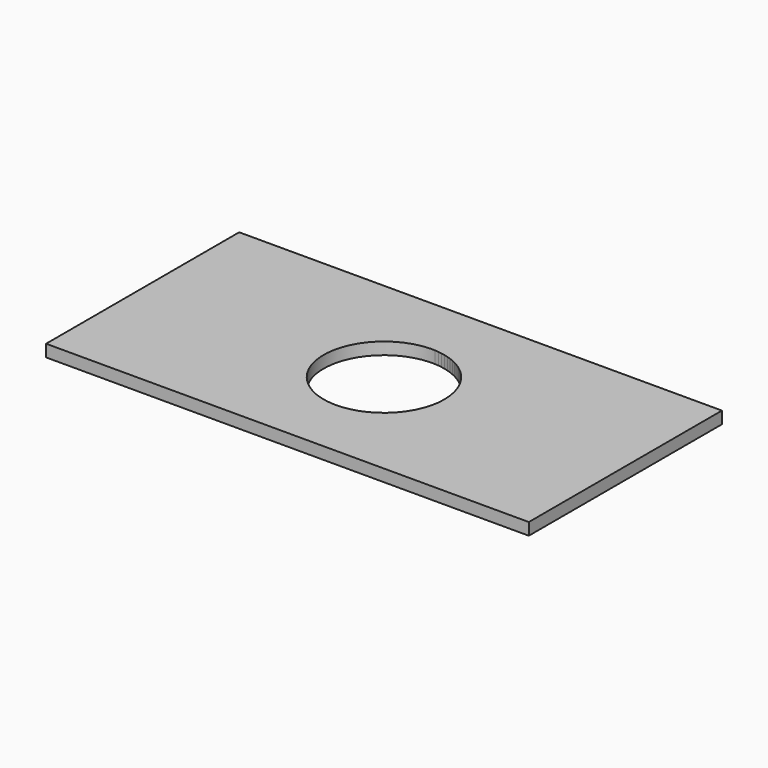
from build123d import *

# Parameters (mm, degrees)
CYLINDER_R        = 50
CYLINDER_DEPTH    = 10
BOX_W             = 200
BOX_H             = 100
BOX_DEPTH         = 10
CYLINDER001_R     = 50
CYLINDER001_DEPTH = 10
BOX001_W          = 400
BOX001_H          = 200
BOX001_DEPTH      = 10


with BuildPart() as cylinder:
    # Cylinder → Cylinder (new body)
    with BuildSketch(Plane.XY):
        Circle(CYLINDER_R)
    extrude(amount=CYLINDER_DEPTH)


with BuildPart() as cut:
    # Box → Box (new body)
    with BuildSketch(Plane.XY):
        with Locations((100, 50)):
            Rectangle(BOX_W, BOX_H)
    extrude(amount=BOX_DEPTH)

    # Cut: cut Cylinder
    add(cylinder.part, mode=Mode.SUBTRACT)


with BuildPart() as cylinder001:
    # Cylinder001 → Cylinder001 (new body)
    with BuildSketch(Plane.XY):
        Circle(CYLINDER001_R)
    extrude(amount=CYLINDER001_DEPTH)


with BuildPart() as cut001:
    # Box001 → Box001 (new body)
    with BuildSketch(Plane(origin=(-200, -100, 0), x_dir=(1, 0, 0), z_dir=(0, 0, 1))):
        with Locations((200, 100)):
            Rectangle(BOX001_W, BOX001_H)
    extrude(amount=BOX001_DEPTH)

    # Cut001: cut Cylinder001
    add(cylinder001.part, mode=Mode.SUBTRACT)


solid = Compound([cut.part, cut001.part])
